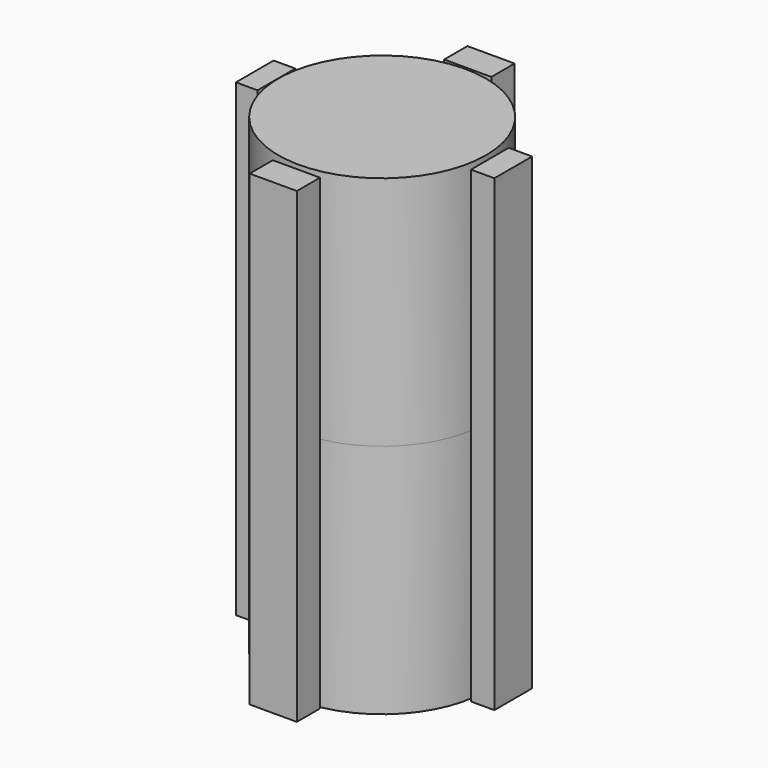
from build123d import *

# Parameters (mm, degrees)
F0_R          = 16.7732892251
F1_DEPTH      = 38.1
F1_DEPTH_BACK = 38.1
F2_W          = 4.6742036939
F2_H          = 75.4768997431
F3_DEPTH      = 3.81
F3_DEPTH_BACK = 3.81
F4_W          = 4.6942159534
F4_H          = 75.990319252
F5_DEPTH      = 3.81
F5_DEPTH_BACK = 3.81
F6_W          = 3.7830360234
F6_H          = 75.6176039577
F7_DEPTH      = 3.81
F7_DEPTH_BACK = 3.81
F8_W          = 3.4921914339
F8_H          = 75.7498890162
F9_DEPTH      = 3.81
F9_DEPTH_BACK = 3.81


with BuildPart() as f1:
    # F0 (on Top) → F1 (new body, two sides)
    with BuildSketch(Plane.XY) as f1_sk:
        Circle(F0_R)
    extrude(amount=-F1_DEPTH)
    extrude(f1_sk.sketch, amount=F1_DEPTH_BACK)


with BuildPart() as f3:
    # F2 (on Right) → F3 (new body, two sides)
    with BuildSketch(Plane.YZ) as f3_sk:
        with Locations((-19.6471717209, 0)):
            Rectangle(F2_W, F2_H)
    extrude(amount=F3_DEPTH)
    extrude(f3_sk.sketch, amount=-F3_DEPTH_BACK)


with BuildPart() as f5:
    # F4 (on Right) → F5 (new body, two sides)
    with BuildSketch(Plane.YZ) as f5_sk:
        with Locations((19.6291580796, 0)):
            Rectangle(F4_W, F4_H)
    extrude(amount=-F5_DEPTH)
    extrude(f5_sk.sketch, amount=F5_DEPTH_BACK)


with BuildPart() as f7:
    # F6 (on Front) → F7 (new body, two sides)
    with BuildSketch(Plane.XZ) as f7_sk:
        with Locations((19.277555868, 0)):
            Rectangle(F6_W, F6_H)
    extrude(amount=-F7_DEPTH)
    extrude(f7_sk.sketch, amount=F7_DEPTH_BACK)


with BuildPart() as f9:
    # F8 (on Front) → F9 (new body, two sides)
    with BuildSketch(Plane.XZ) as f9_sk:
        with Locations((-18.8250113279, 0)):
            Rectangle(F8_W, F8_H)
    extrude(amount=-F9_DEPTH)
    extrude(f9_sk.sketch, amount=F9_DEPTH_BACK)


solid = Compound([f1.part, f3.part, f5.part, f7.part, f9.part])
